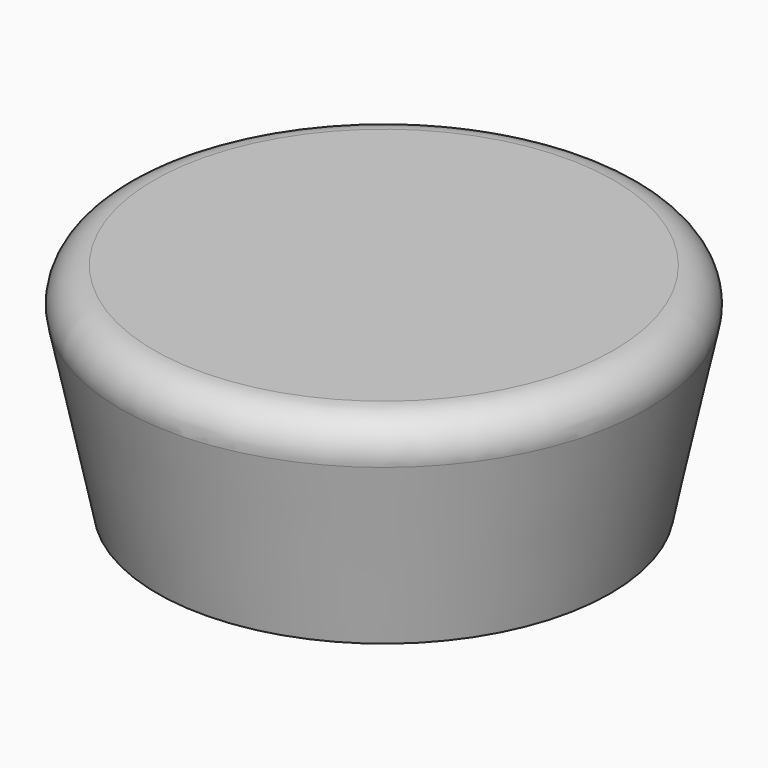
from build123d import *

# Parameters (mm, degrees)
F2_R     = 3
F3_R     = 2.25
F4_DEPTH = 16


with BuildPart() as f1:
    # F0 (on Front) → F1 (revolve)
    with BuildSketch(Plane.XZ):
        Polygon((0, 19), (0, 0), (20, 0), (24, 19), align=None)
    revolve(axis=Axis((0, 0, 9.5), (0, 0, 1)))

    # F2
    f2_edges = [f1.edges().sort_by_distance(p)[0] for p in [
        (-24, 0, 19),
    ]]
    fillet(f2_edges, radius=F2_R)

    # F3 (on face) → F4 (cut)
    with BuildSketch(Plane(origin=(0, 0, 0), x_dir=(1, 0, 0), z_dir=(0, 0, -1))):
        Circle(F3_R)
    extrude(amount=-F4_DEPTH, mode=Mode.SUBTRACT)


solid = f1.part
